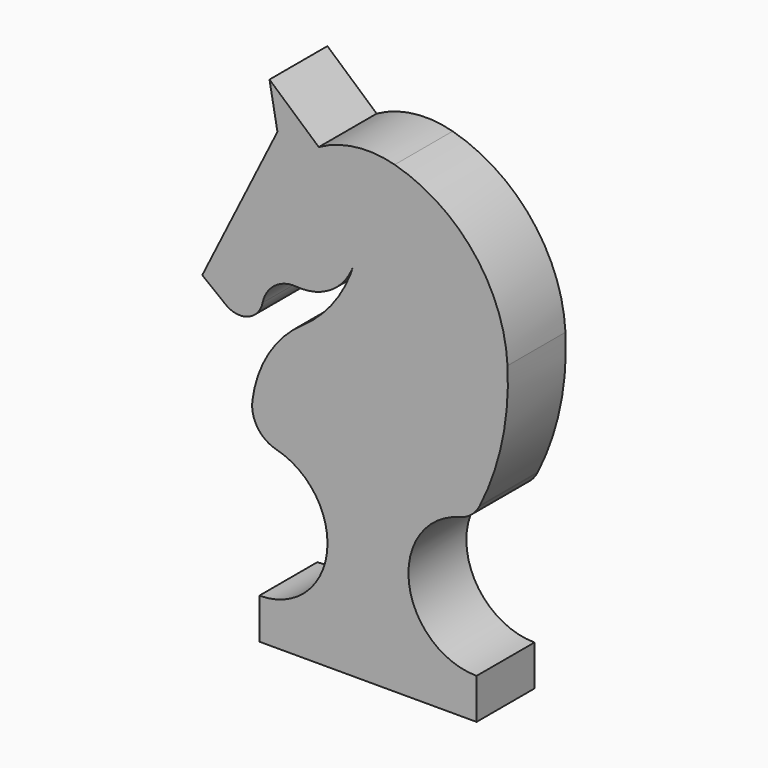
from build123d import *

# Parameters (mm, degrees)
F1_DEPTH = 25


with BuildPart() as f1:
    # F0 (on Front) → F1 (new body)
    with BuildSketch(Plane.XZ):
        with BuildLine():
            Line((-37.5, 14), (-37.5, 0))
            Line((-37.5, 0), (37.5, 0))
            Line((37.5, 0), (37.5, 14))
            ThreePointArc((37.5, 14), (14.162449, 34.518208), (31.52352, 60.290894))
            ThreePointArc((31.52352, 60.290894), (35.653559, 62.382645), (38.557186, 65.988417))
            ThreePointArc((38.557186, 65.988417), (38.612297, 66.098198), (38.667261, 66.208052))
            ThreePointArc((38.667261, 66.208052), (46.371917, 88.367349), (48.185307, 111.757685))
            ThreePointArc((48.185307, 111.757685), (36.544831, 142.271211), (9.226588, 160.167845))
            ThreePointArc((9.226588, 160.167845), (-4.197058, 161.153325), (-17, 157))
            Line((-17, 157), (-34, 172))
            Line((-34, 172), (-31.256047, 157))
            Line((-31.256047, 157), (-57.216246, 105))
            Line((-57.216246, 105), (-49.139323, 98.694184))
            ThreePointArc((-49.139323, 98.694184), (-41.465677, 97.487718), (-36.385319, 103.363972))
            ThreePointArc((-36.385319, 103.363972), (-32.175773, 109.945792), (-24.657937, 112.072474))
            ThreePointArc((-24.657937, 112.072474), (-12.25263, 115.331751), (-4.745103, 125.731346))
            ThreePointArc((-4.745103, 125.731346), (-11.473211, 111.899546), (-22.46655, 101.141636))
            ThreePointArc((-22.46655, 101.141636), (-34.288087, 88.611641), (-39.919109, 72.331559))
            ThreePointArc((-39.919109, 72.331559), (-38.076399, 64.785583), (-31.707692, 60.338462))
            ThreePointArc((-31.707692, 60.338462), (-14.150461, 34.612558), (-37.5, 14))
        make_face()
        with BuildLine():
            ThreePointArc((38.557186, 65.988417), (35.653559, 62.382645), (31.52352, 60.290894))
            ThreePointArc((31.52352, 60.290894), (31.615558, 60.314864), (31.707692, 60.338462))
            ThreePointArc((31.707692, 60.338462), (35.633505, 62.363339), (38.446522, 65.76908))
            ThreePointArc((38.446522, 65.76908), (38.501928, 65.878711), (38.557186, 65.988417))
        make_face()
        with BuildLine():
            ThreePointArc((38.667261, 66.208052), (38.612297, 66.098198), (38.557186, 65.988417))
            ThreePointArc((38.557186, 65.988417), (38.501928, 65.878711), (38.446522, 65.76908))
            ThreePointArc((38.446522, 65.76908), (38.559342, 65.987333), (38.667261, 66.208052))
        make_face()
    extrude(amount=F1_DEPTH)


solid = f1.part
